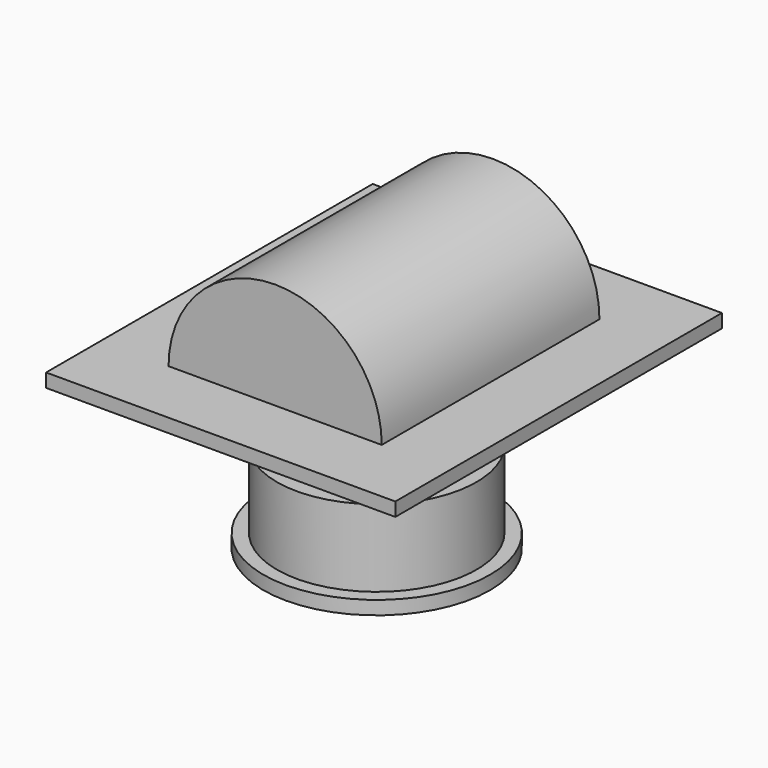
from build123d import *

# Parameters (mm, degrees)
PAD_DEPTH    = 60
SKETCH001_W  = 77
SKETCH001_H  = 90
PAD001_DEPTH = 3
SKETCH003_W  = 6
SKETCH003_H  = 6
POCKET_DEPTH = 4
BOX_W        = 6
BOX_H        = 6
BOX_DEPTH    = 3.9


with BuildPart() as body:
    # Sketch → Pad (new body)
    with BuildSketch(Plane.XZ):
        with BuildLine():
            ThreePointArc((23.5, 0), (0, 23.5), (-23.5, 0))
            Line((-23.5, 0), (23.5, 0))
        make_face()
    extrude(amount=PAD_DEPTH)

    # Sketch001 (on Face2 of Pad) → Pad001 (join)
    with BuildSketch(Plane(origin=(0, 0, 0), x_dir=(1, 0, 0), z_dir=(0, 0, -1))):
        with Locations((0, 30)):
            Rectangle(SKETCH001_W, SKETCH001_H)
    extrude(amount=PAD001_DEPTH)

    # Sketch003 (on Face5 of Pad001) → Pocket (cut)
    with BuildSketch(Plane(origin=(0, 0, -3), x_dir=(1, 0, 0), z_dir=(0, 0, -1))):
        with Locations((0, 30)):
            Rectangle(SKETCH003_W, SKETCH003_H)
    extrude(amount=-POCKET_DEPTH, mode=Mode.SUBTRACT)


with BuildPart() as body001:
    # Sketch002 → Revolution (revolve)
    with BuildSketch(Plane.XZ):
        Polygon((-22, -3.091588), (-22, -20.091588), (-25, -20.091588), (-25, -23.091588), (0, -23.091588), (0, -3.091588), align=None)
    revolve(axis=Axis((0, 0, 0), (0, 0, 1)))

    # Box → Box (join)
    with BuildSketch(Plane(origin=(3, 3, -3.091588), x_dir=(-1, 0, 0), z_dir=(0, 0, 1))):
        with Locations((3, 3)):
            Rectangle(BOX_W, BOX_H)
    extrude(amount=BOX_DEPTH)


with BuildPart() as body001_1:
    # Body001 placement: moved
    add(body001.part.moved(Location((0, -32, -16))))


solid = Compound([body.part, body001_1.part])
